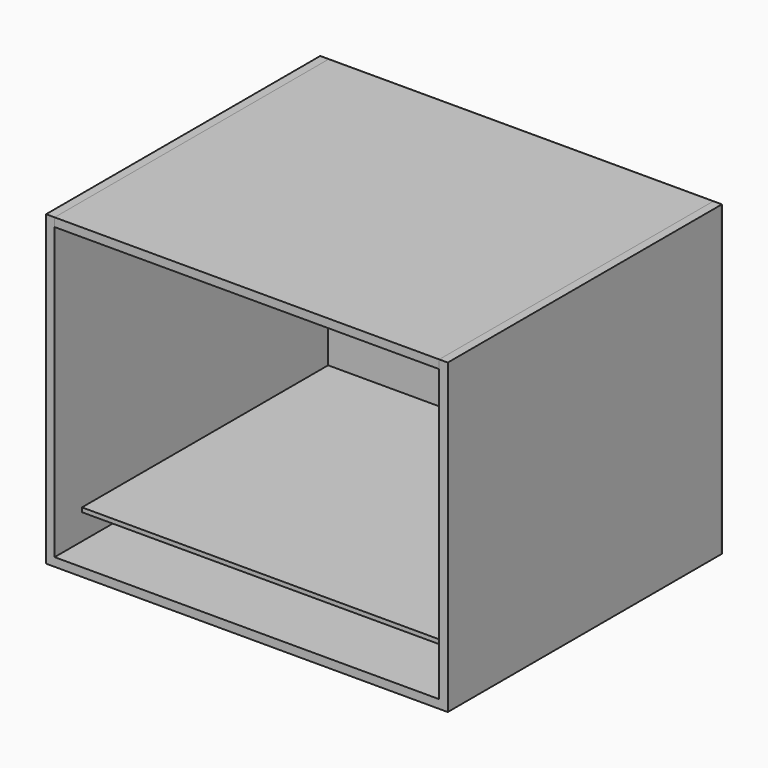
from build123d import *

# Parameters (mm, degrees)
F0_W      = 450
F0_H      = 400
F1_DEPTH  = 10
F5_W      = 340.3431326151
F5_H      = 72.7730989456
F6_DEPTH  = 10
F7_W      = 400
F7_H      = 360
F8_DEPTH  = 10
F9_W      = 400
F9_H      = 360
F10_DEPTH = 10
F12_W     = 450
F12_H     = 400
F13_DEPTH = 10
F14_W     = 470
F14_H     = 360
F15_DEPTH = 1
F17_W     = 450
F17_H     = 360
F18_DEPTH = 5
F20_D     = 28


with BuildPart() as f1:
    # F0 (on Top) → F1 (new body)
    with BuildSketch(Plane.XY):
        with Locations((-21.2339609861, -1.7666330037)):
            Rectangle(F0_W, F0_H)
    extrude(amount=F1_DEPTH)

    # F5 (on offset) → F6 (join)
    with BuildSketch(Plane(origin=(-246.2339609861, 0, 0), x_dir=(0, -1, 0), z_dir=(-1, 0, 0))):
        with Locations((-9.1566815972, 36.3865494728)):
            Rectangle(F5_W, F5_H)
    extrude(amount=F6_DEPTH)

    # F7 (on offset) → F8 (join)
    with BuildSketch(Plane(origin=(-246.2339609861, 0, 0), x_dir=(0, -1, 0), z_dir=(-1, 0, 0))):
        with Locations((1.7666330037, 180)):
            Rectangle(F7_W, F7_H)
    extrude(amount=F8_DEPTH)

    # F9 (on offset) → F10 (join)
    with BuildSketch(Plane.YZ.offset(203.7660390139)):
        with Locations((-1.7666330037, 180)):
            Rectangle(F9_W, F9_H)
    extrude(amount=F10_DEPTH)


with BuildPart() as f13:
    # F12 (on offset) → F13 (new body)
    with BuildSketch(Plane.XY.offset(360)):
        with Locations((-21.2339609861, -1.7666330037)):
            Rectangle(F12_W, F12_H)
    extrude(amount=-F13_DEPTH)


with BuildPart() as f15:
    # F14 (on offset) → F15 (new body)
    with BuildSketch(Plane(origin=(0, 198.2333669963, 0), x_dir=(-1, 0, 0), z_dir=(0, 1, 0))):
        with Locations((21.2339609861, 180)):
            Rectangle(F14_W, F14_H)
    extrude(amount=F15_DEPTH)

    # F20 (through all)
    with Locations(Plane(origin=(0, 199.2333669963, 0), x_dir=(-1, 0, 0), z_dir=(0, 1, 0))):
        with Locations((-188.7660390139, 24.5), (-158.7660390139, 24.5), (-128.7660390139, 24.5), (-98.7660390139, 24.5), (-68.7660390139, 24.5), (-38.7660390139, 24.5), (-8.7660390139, 24.5), (21.2339609861, 24.5), (51.2339609861, 24.5), (81.2339609861, 24.5), (111.2339609861, 24.5), (141.2339609861, 24.5), (171.2339609861, 24.5), (201.2339609861, 24.5), (231.2339609861, 24.5)):
            Hole(F20_D / 2)


with BuildPart() as f18:
    # F17 (on offset) → F18 (new body)
    with BuildSketch(Plane.XY.offset(40)):
        with Locations((-21.2339609861, 18.2333669963)):
            Rectangle(F17_W, F17_H)
    extrude(amount=F18_DEPTH)


solid = Compound([f1.part, f13.part, f15.part, f18.part])
